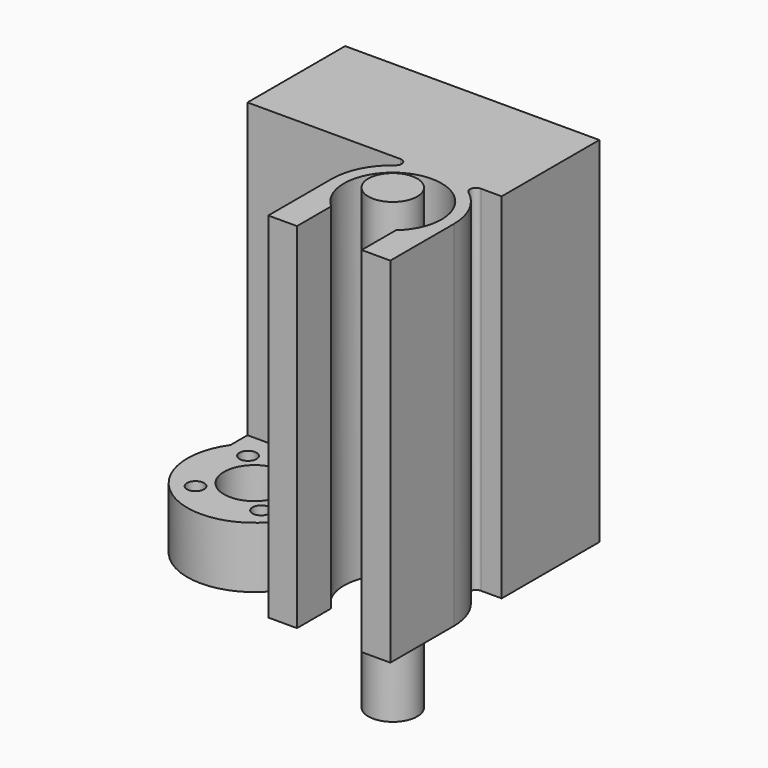
from build123d import *

# Parameters (mm, degrees)
F0_R          = 1.4
F0_R_2        = 5
F1_DEPTH      = 10
F2_DEPTH      = 58
F0_R_3        = 4
F3_DEPTH      = 60
F3_DEPTH_BACK = 15


with BuildPart() as f1:
    # F0 (on Top) → F1 (new body)
    with BuildSketch(Plane.XY):
        with BuildLine():
            Line((-9, 29.8), (-9, 9.8))
            Line((-9, 9.8), (11, 9.8))
            Line((11, 9.8), (16.05, 9.8))
            ThreePointArc((16.05, 9.8), (16.998683, 9.116228), (16.65, 8))
            ThreePointArc((16.65, 8), (13.705728, 4.472136), (12.65, 0))
            Line((12.65, 0), (12.65, -13))
            Line((12.65, -13), (17.35, -13))
            Line((17.35, -13), (17.35, -5.992495))
            ThreePointArc((17.35, -5.992495), (22.65, 8), (27.95, -5.992495))
            Line((27.95, -5.992495), (27.95, -13))
            Line((27.95, -13), (32.65, -13))
            Line((32.65, -13), (32.65, 0))
            ThreePointArc((32.65, 0), (31.594272, 4.472136), (28.65, 8))
            ThreePointArc((28.65, 8), (28.301317, 9.116228), (29.25, 9.8))
            Line((29.25, 9.8), (32.65, 9.8))
            Line((32.65, 9.8), (32.65, 29.8))
            Line((32.65, 29.8), (-9, 29.8))
        make_face()
        with BuildLine():
            Line((-9, 9.8), (-9, 6.324555))
            ThreePointArc((-9, 6.324555), (-3.316625, -10.488088), (11, 0))
            Line((11, 0), (11, 9.8))
            Line((11, 9.8), (-9, 9.8))
        make_face()
        with Locations((-5.374012, -5.374012)):
            Circle(F0_R, mode=Mode.SUBTRACT)
        with Locations((5.374012, -5.374012)):
            Circle(F0_R, mode=Mode.SUBTRACT)
        with Locations((-5.374012, 5.374012)):
            Circle(F0_R, mode=Mode.SUBTRACT)
        Circle(F0_R_2, mode=Mode.SUBTRACT)
        with Locations((5.374012, 5.374012)):
            Circle(F0_R, mode=Mode.SUBTRACT)
    extrude(amount=F1_DEPTH)

    # F0 (on Top) → F2 (join)
    with BuildSketch(Plane.XY):
        with BuildLine():
            Line((-9, 29.8), (-9, 9.8))
            Line((-9, 9.8), (11, 9.8))
            Line((11, 9.8), (16.05, 9.8))
            ThreePointArc((16.05, 9.8), (16.998683, 9.116228), (16.65, 8))
            ThreePointArc((16.65, 8), (13.705728, 4.472136), (12.65, 0))
            Line((12.65, 0), (12.65, -13))
            Line((12.65, -13), (17.35, -13))
            Line((17.35, -13), (17.35, -5.992495))
            ThreePointArc((17.35, -5.992495), (22.65, 8), (27.95, -5.992495))
            Line((27.95, -5.992495), (27.95, -13))
            Line((27.95, -13), (32.65, -13))
            Line((32.65, -13), (32.65, 0))
            ThreePointArc((32.65, 0), (31.594272, 4.472136), (28.65, 8))
            ThreePointArc((28.65, 8), (28.301317, 9.116228), (29.25, 9.8))
            Line((29.25, 9.8), (32.65, 9.8))
            Line((32.65, 9.8), (32.65, 29.8))
            Line((32.65, 29.8), (-9, 29.8))
        make_face()
    extrude(amount=F2_DEPTH)


with BuildPart() as f3:
    # F0 (on Top) → F3 (new body, two sides)
    with BuildSketch(Plane.XY) as f3_sk:
        with Locations((22.65, 0)):
            Circle(F0_R_3)
    extrude(amount=F3_DEPTH)
    extrude(f3_sk.sketch, amount=-F3_DEPTH_BACK)


solid = Compound([f1.part, f3.part])
